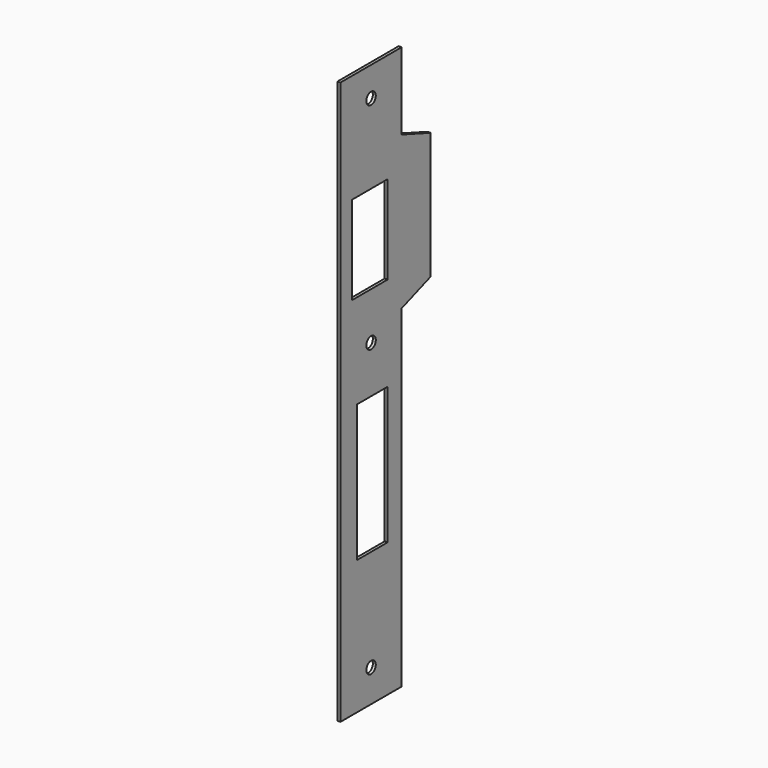
from build123d import *

# Parameters (mm, degrees)
F0_R     = 2
F0_W     = 13
F0_H     = 46.5
F0_W_2   = 15
F0_H_2   = 30
F1_DEPTH = 1


with BuildPart() as f1:
    # F0 (on Right) → F1 (new body)
    with BuildSketch(Plane.YZ):
        Polygon((21, 97.677421), (-5, 97.677421), (-5, -93.322579), (21, -93.322579), (21, 19.677421), (33.216004, 24.123683), (33.216004, 67.123683), (21, 71.569945), align=None)
        with Locations((8, -82.322579)):
            Circle(F0_R, mode=Mode.SUBTRACT)
        with Locations((8.5, -24.572579)):
            Rectangle(F0_W, F0_H, mode=Mode.SUBTRACT)
        with Locations((8, 14.677421)):
            Circle(F0_R, mode=Mode.SUBTRACT)
        with Locations((7.5, 45.677421)):
            Rectangle(F0_W_2, F0_H_2, mode=Mode.SUBTRACT)
        with Locations((8, 87.677421)):
            Circle(F0_R, mode=Mode.SUBTRACT)
    extrude(amount=F1_DEPTH)


solid = f1.part
